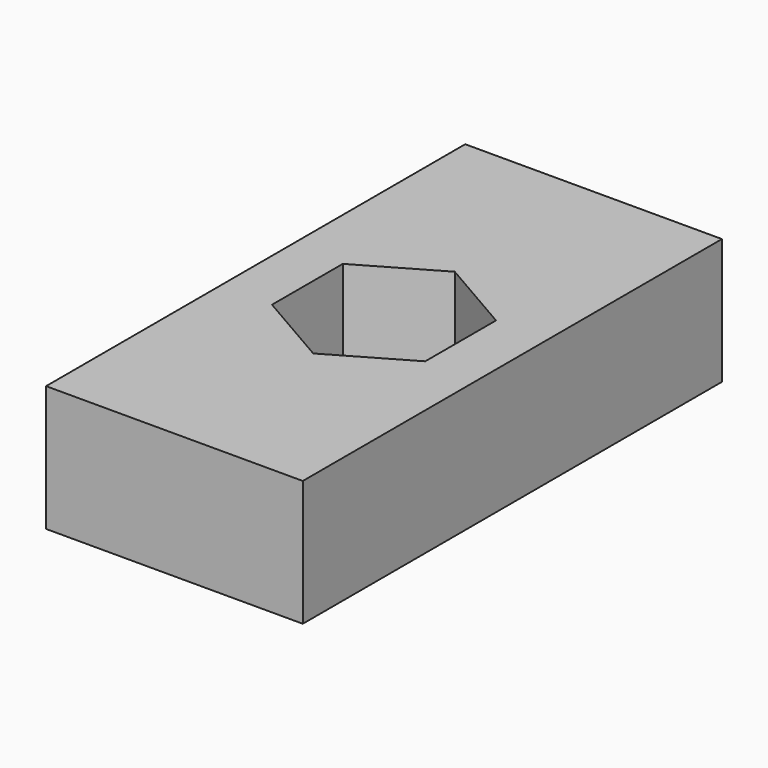
from build123d import *

# Parameters (mm, degrees)
F0_W     = 9.8
F0_H     = 20
F1_DEPTH = 4.8
F0_R     = 1.3
F2_DEPTH = 1.3


with BuildPart() as f1:
    # F0 (on Top) → F1 (new body)
    with BuildSketch(Plane.XY):
        Rectangle(F0_W, F0_H)
        Polygon((0, 3.377499), (2.925, 1.68875), (2.925, -1.68875), (0, -3.377499), (-2.925, -1.68875), (-2.925, 1.68875), align=None, mode=Mode.SUBTRACT)
    extrude(amount=F1_DEPTH)

    # F0 (on Top) → F2 (join)
    with BuildSketch(Plane.XY):
        Polygon((2.925, -1.68875), (2.925, 1.68875), (0, 3.377499), (-2.925, 1.68875), (-2.925, -1.68875), (0, -3.377499), align=None)
        Circle(F0_R, mode=Mode.SUBTRACT)
    extrude(amount=F2_DEPTH)


solid = f1.part
